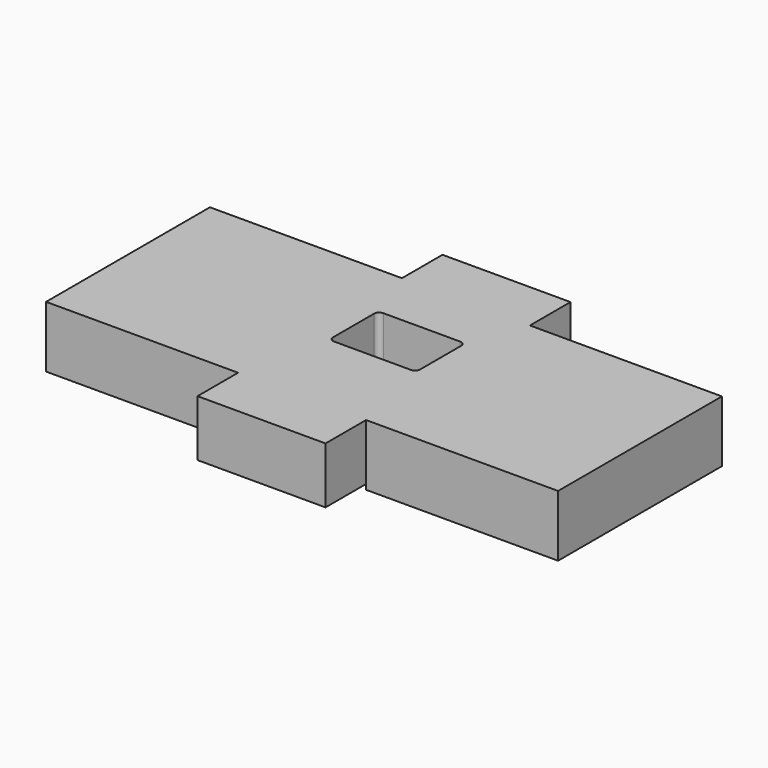
from build123d import *

# Parameters (mm, degrees)
F0_W      = 50
F0_H      = 20
F1_DEPTH  = 6
F2_W      = 12.5
F2_H      = 29.9
F3_DEPTH  = 6
F5_W      = 12.5
F5_H      = 21.55
F6_DEPTH  = 0.5
F8_W      = 3.5
F8_H      = 8
F9_DEPTH  = 0.2
F11_DEPTH = 1
F12_W     = 8.5
F12_H     = 6
F13_DEPTH = 25
F14_R     = 0.5


with BuildPart() as f1:
    # F0 (on Top) → F1 (new body)
    with BuildSketch(Plane.XY):
        Rectangle(F0_W, F0_H)
    extrude(amount=F1_DEPTH)

    # F2 (on face) → F3 (join)
    with BuildSketch(Plane(origin=(0, 0, 0), x_dir=(1, 0, 0), z_dir=(0, 0, -1))):
        Rectangle(F2_W, F2_H)
    extrude(amount=-F3_DEPTH)

    # F5 (on face) → F6 (cut)
    with BuildSketch(Plane(origin=(0, 0, 0), x_dir=(1, 0, 0), z_dir=(0, 0, -1))):
        with Locations((0, 4.175)):
            Rectangle(F5_W, F5_H)
    extrude(amount=-F6_DEPTH, mode=Mode.SUBTRACT)

    # F8 (on face) → F9 (cut)
    with BuildSketch(Plane(origin=(0, 0, 0.5), x_dir=(1, 0, 0), z_dir=(0, 0, -1))):
        with Locations((-4.5, -2.6)):
            Rectangle(F8_W, F8_H)
    extrude(amount=-F9_DEPTH, mode=Mode.SUBTRACT)

    # F10 (on face) → F11 (join)
    with BuildSketch(Plane(origin=(0, 0, 0), x_dir=(1, 0, 0), z_dir=(0, 0, -1))):
        Polygon((-6.25, -10), (-6.25, -14.95), (6.25, -14.95), (6.25, -6.6), (-6.25, -6.6), align=None)
    extrude(amount=F11_DEPTH)

    # F12 (on face) → F13 (cut)
    with BuildSketch(Plane(origin=(0, 0, 0.5), x_dir=(1, 0, 0), z_dir=(0, 0, -1))):
        with Locations((0, -1.6)):
            Rectangle(F12_W, F12_H)
    extrude(amount=-F13_DEPTH, mode=Mode.SUBTRACT)

    # F14
    f14_edges = [f1.edges().sort_by_distance(p)[0] for p in [
        (4.25, -1.4, 3.25),
        (4.25, 4.6, 3.25),
        (-4.25, 4.6, 3.35),
        (-4.25, -1.4, 3.35),
    ]]
    fillet(f14_edges, radius=F14_R)


solid = f1.part
